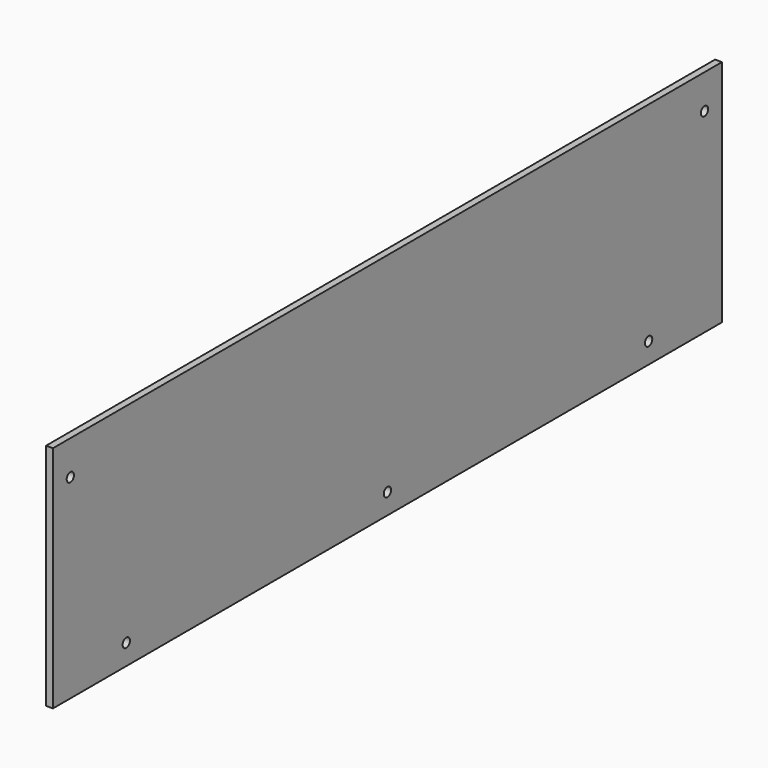
from build123d import *

# Parameters (mm, degrees)
F0_W     = 3
F0_H     = 365
F1_DEPTH = 100
F3_D     = 4


with BuildPart() as f1:
    # F0 (on Top) → F1 (new body)
    with BuildSketch(Plane.XY):
        with Locations((-1.5, 0)):
            Rectangle(F0_W, F0_H)
    extrude(amount=F1_DEPTH)

    # F3 (through all)
    with Locations(Plane.YZ):
        with Locations((-173, 85), (-142.5, 9), (0, 9), (142.5, 9), (173, 85)):
            Hole(F3_D / 2)


solid = f1.part
